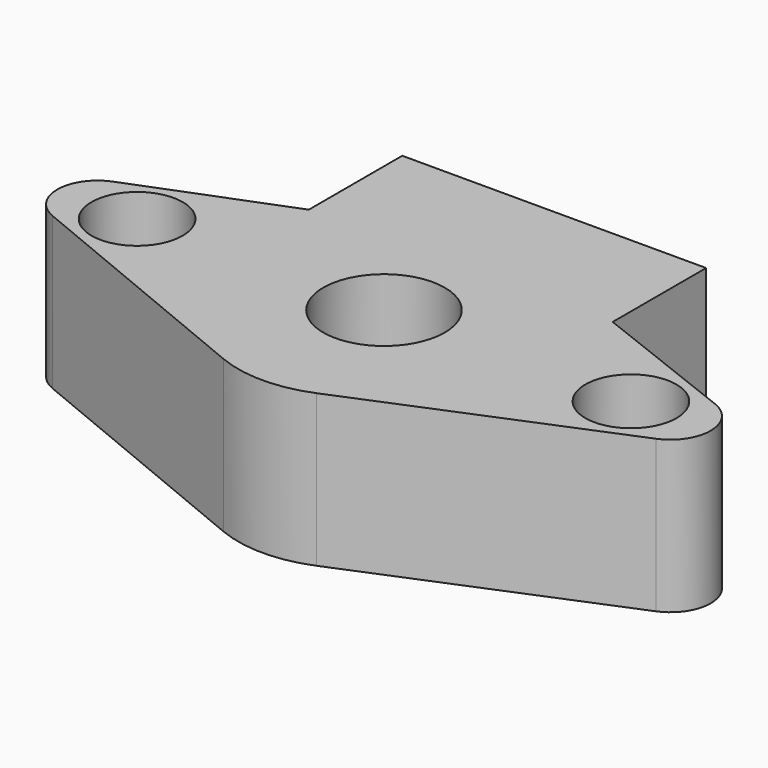
from build123d import *

# Parameters (mm, degrees)
SKETCH_R   = 4
SKETCH_R_2 = 3
PAD_DEPTH  = 10


with BuildPart() as part:
    # Sketch → Pad (new body)
    with BuildSketch(Plane.XY):
        with BuildLine():
            Line((-19.818265, 2.465513), (-10, 6.314027))
            Line((-10, 6.314027), (-10, 14))
            Line((-10, 14), (10, 14))
            Line((10, 14), (10, 6.314027))
            Line((10, 6.314027), (19.818265, 2.465513))
            ThreePointArc((19.863348, -2.447363), (21.499889, 0.0243), (19.818265, 2.465513))
            Line((19.863348, -2.447363), (3.058498, -9.392862))
            ThreePointArc((-3.058498, -9.392862), (0, -10), (3.058498, -9.392862))
            Line((-3.058498, -9.392862), (-19.863348, -2.447363))
            ThreePointArc((-19.818265, 2.465513), (-21.499889, 0.0243), (-19.863348, -2.447363))
        make_face()
        Circle(SKETCH_R, mode=Mode.SUBTRACT)
        with Locations((-16.25, 0)):
            Circle(SKETCH_R_2, mode=Mode.SUBTRACT)
        with Locations((16.25, 0)):
            Circle(SKETCH_R_2, mode=Mode.SUBTRACT)
    extrude(amount=PAD_DEPTH)


solid = part.part
